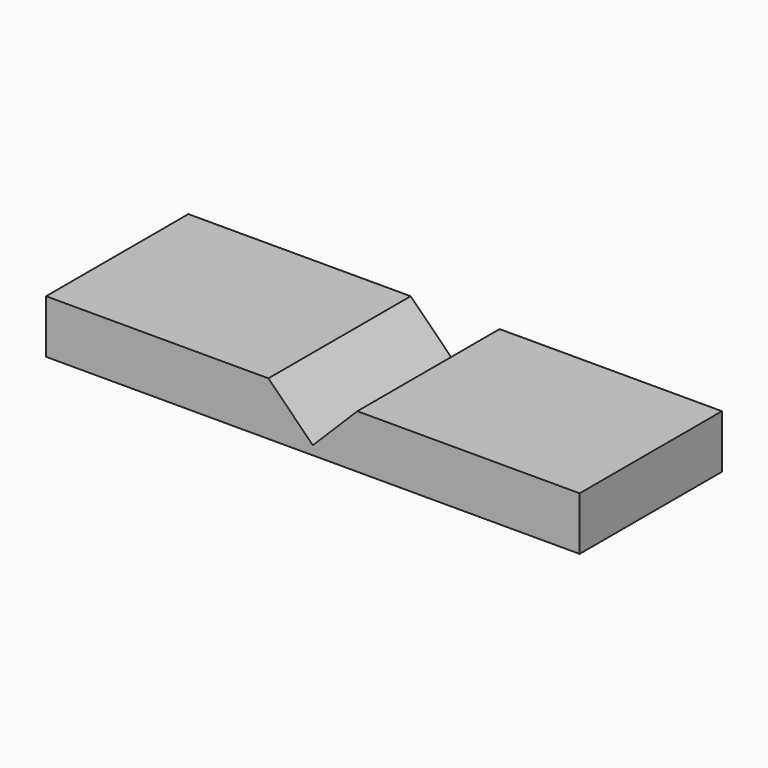
from build123d import *

# Parameters (mm, degrees)
SKETCH_W     = 30
SKETCH_H     = 10
PAD_DEPTH    = 3
POCKET_DEPTH = 10.001


with BuildPart() as part:
    # Sketch → Pad (new body)
    with BuildSketch(Plane.XY):
        Rectangle(SKETCH_W, SKETCH_H)
    extrude(amount=PAD_DEPTH)

    # Sketch001 (on Face2 of Pad) → Pocket (cut, through all)
    with BuildSketch(Plane.XZ.offset(5)):
        Polygon((0, 0.5), (-2.5, 3), (2.5, 3), align=None)
    extrude(amount=-POCKET_DEPTH, mode=Mode.SUBTRACT)


solid = part.part
